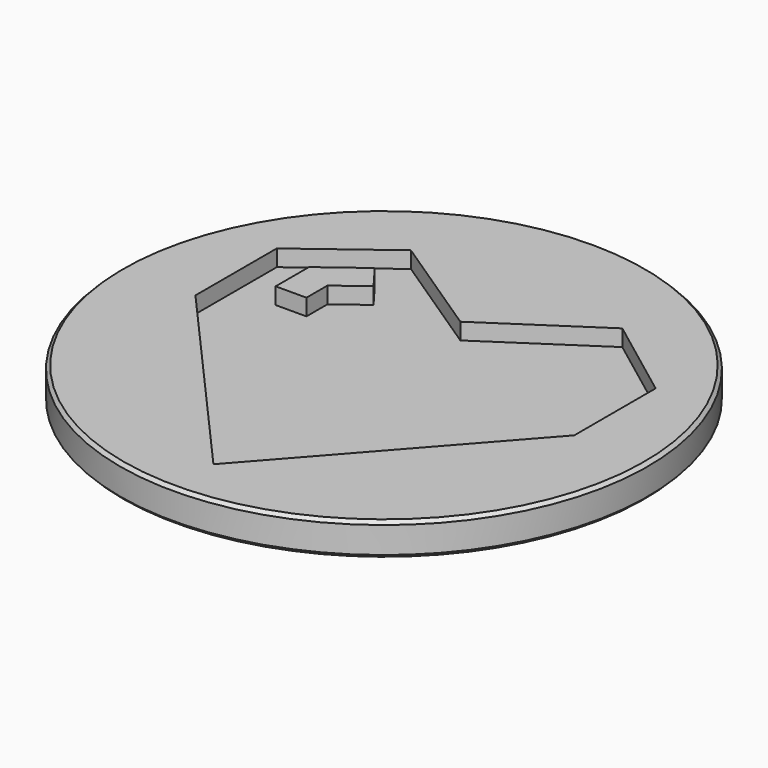
from build123d import *

# Parameters (mm, degrees)
POCKET_DEPTH = 1.25


with BuildPart() as part:
    # Sketch (on DatumPlane) → Revolution (revolve)
    with BuildSketch(Plane.YZ):
        Polygon((0, 0), (0, -2.5), (19.75, -2.5), (20, -2.25), (20, -0.25), (19.75, 0), align=None)
    revolve(axis=Axis((0, 0, 0), (0, 0, 1)))

    # Sketch005 → Pocket (cut)
    with BuildSketch(Plane.XY):
        with BuildLine():
            add(Edge.make_bspline(
                [(-7.956615, 12.5), (-14.3, 7.725144)],
                knots=[0, 0, 42.868665, 42.868665], degree=1))
            add(Edge.make_bspline(
                [(-14.3, 7.725144), (-14.3, 0.021589)],
                knots=[0, 0, 41.594, 41.594], degree=1))
            add(Edge.make_bspline(
                [(-14.3, 0.021589), (0.047904, -16.207292)],
                knots=[0, 0, 116.959765, 116.959765], degree=1))
            add(Edge.make_bspline(
                [(0.047904, -16.207292), (14.407292, 0.021589)],
                knots=[0, 0, 117.00084, 117.00084], degree=1))
            add(Edge.make_bspline(
                [(14.407292, 0.021589), (14.407292, 7.725144)],
                knots=[0, 0, 41.594, 41.594], degree=1))
            add(Edge.make_bspline(
                [(14.407292, 7.725144), (8.063906, 12.5)],
                knots=[0, 0, 42.868665, 42.868665], degree=1))
            add(Edge.make_bspline(
                [(8.063906, 12.5), (0.047904, 7.181002)],
                knots=[0, 0, 51.942525, 51.942525], degree=1))
            add(Edge.make_bspline(
                [(0.047904, 7.181002), (-7.956615, 12.5)],
                knots=[0, 0, 51.890875, 51.890875], degree=1))
        make_face()
        with BuildLine():
            add(Edge.make_bspline(
                [(-8.205498, 9.386277), (-6.80486, 7.522711)],
                knots=[0, 0, 12.587107, 12.587107], degree=1))
            add(Edge.make_bspline(
                [(-6.80486, 7.522711), (-8.986799, 5.884766)],
                knots=[0, 0, 14.731081, 14.731081], degree=1))
            add(Edge.make_bspline(
                [(-8.986799, 5.884766), (-8.986799, 3.893776)],
                knots=[0, 0, 10.75, 10.75], degree=1))
            add(Edge.make_bspline(
                [(-8.986799, 3.893776), (-11.319313, 3.893776)],
                knots=[0, 0, 12.594, 12.594], degree=1))
            add(Edge.make_bspline(
                [(-11.319313, 3.893776), (-11.319313, 7.048059)],
                knots=[0, 0, 17.031, 17.031], degree=1))
            add(Edge.make_bspline(
                [(-11.319313, 7.048059), (-8.20559, 9.386315)],
                knots=[0, 0, 21.024604, 21.024604], degree=1))
            add(Edge.make_bspline(
                [(-8.20559, 9.386315), (-8.205498, 9.386277)],
                knots=[0, 0, 0.000539, 0.000539], degree=1))
        make_face(mode=Mode.SUBTRACT)
    extrude(amount=-POCKET_DEPTH, mode=Mode.SUBTRACT)


solid = part.part
